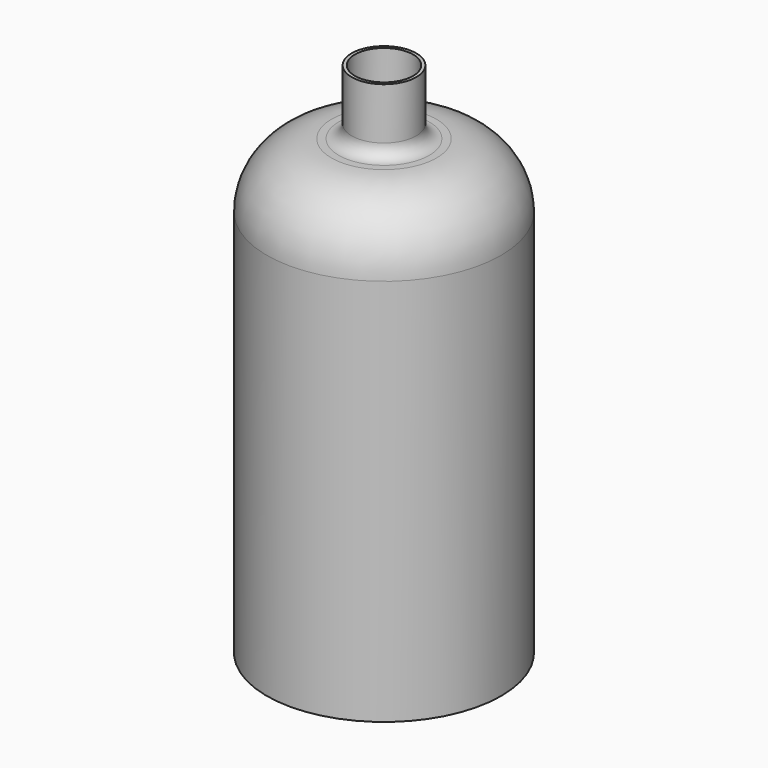
from build123d import *


with BuildPart() as f1:
    # F0 (on Front) → F1 (revolve)
    with BuildSketch(Plane.XZ):
        with BuildLine():
            Line((-11.43, 84.455), (-11.43, 104.775))
            Line((-11.43, 104.775), (-12.7, 104.775))
            Line((-12.7, 104.775), (-12.7, 84.455))
            ThreePointArc((-12.7, 84.455), (-14.187898, 80.862898), (-17.78, 79.375))
            Line((-17.78, 79.375), (-20.6375, 79.375))
            ThreePointArc((-20.6375, 79.375), (-38.598012, 71.935512), (-46.0375, 53.975))
            Line((-46.0375, 53.975), (-46.0375, -98.425))
            Line((-46.0375, -98.425), (-44.7675, -98.425))
            Line((-44.7675, -98.425), (-44.7675, 53.975))
            ThreePointArc((-44.7675, 53.975), (-37.699987, 71.037487), (-20.6375, 78.105))
            Line((-20.6375, 78.105), (-17.78, 78.105))
            ThreePointArc((-17.78, 78.105), (-13.289872, 79.964872), (-11.43, 84.455))
        make_face()
    revolve(axis=Axis((0, 0, 0), (0, 0, -1)))


solid = f1.part
